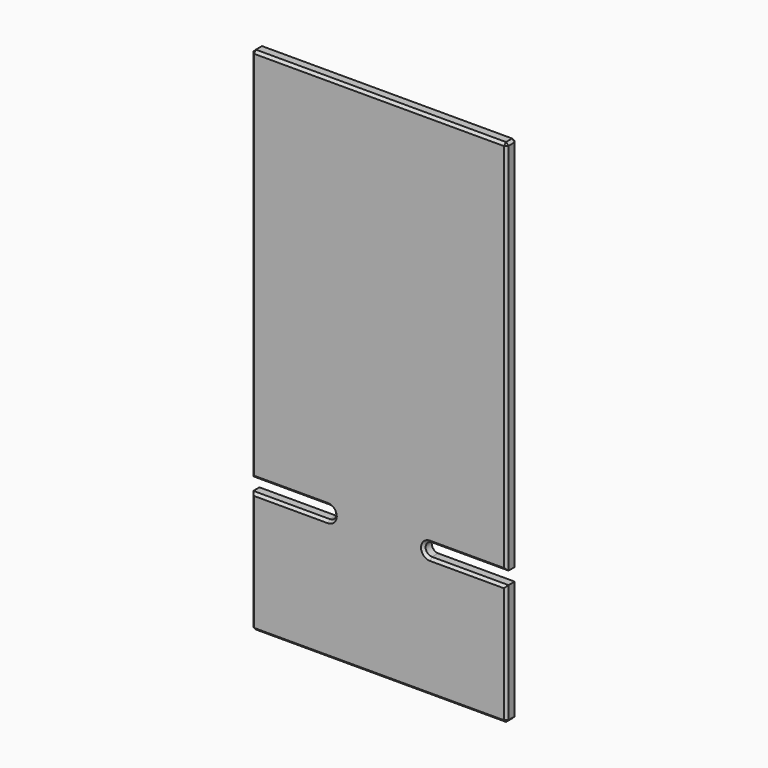
from build123d import *

# Parameters (mm, degrees)
F1_DEPTH = 5
F2_SIZE  = 1


with BuildPart() as f1:
    # F0 (on Front) → F1 (new body)
    with BuildSketch(Plane.XZ):
        with BuildLine():
            Line((79.487856, 150.528029), (-20.512144, 150.528029))
            Line((-20.512144, 150.528029), (-20.512144, 3.028029))
            Line((-20.512144, 3.028029), (9.487856, 3.028029))
            ThreePointArc((9.487856, 3.028029), (11.987856, 0.528029), (9.487856, -1.971971))
            Line((9.487856, -1.971971), (-20.512144, -1.971971))
            Line((-20.512144, -1.971971), (-20.512144, -49.471971))
            Line((-20.512144, -49.471971), (79.487856, -49.471971))
            Line((79.487856, -49.471971), (79.487856, -1.971971))
            Line((79.487856, -1.971971), (49.487856, -1.971971))
            ThreePointArc((49.487856, -1.971971), (46.987856, 0.528029), (49.487856, 3.028029))
            Line((49.487856, 3.028029), (79.487856, 3.028029))
            Line((79.487856, 3.028029), (79.487856, 150.528029))
        make_face()
    extrude(amount=F1_DEPTH)

    # F2
    f2_edges = [f1.edges().sort_by_distance(p)[0] for p in [
        (29.487856, -5, 150.528029),
        (-20.512144, -5, 76.778029),
        (-5.512144, -5, 3.028029),
        (11.987856, -5, 0.528029),
        (-5.512144, -5, -1.971971),
        (-20.512144, -5, -25.721971),
        (29.487856, -5, -49.471971),
        (79.487856, -5, -25.721971),
        (64.487856, -5, -1.971971),
        (46.987856, -5, 0.528029),
        (64.487856, -5, 3.028029),
        (79.487856, -5, 76.778029),
        (29.487856, 0, 150.528029),
        (-20.512144, 0, 76.778029),
        (-5.512144, 0, 3.028029),
        (11.987856, 0, 0.528029),
        (-5.512144, 0, -1.971971),
        (-20.512144, 0, -25.721971),
        (29.487856, 0, -49.471971),
        (79.487856, 0, -25.721971),
        (64.487856, 0, -1.971971),
        (46.987856, 0, 0.528029),
        (64.487856, 0, 3.028029),
        (79.487856, 0, 76.778029),
        (-20.512144, -2.5, -49.471971),
        (79.487856, -2.5, -49.471971),
        (79.487856, -2.5, 150.528029),
        (-20.512144, -2.5, 150.528029),
    ]]
    chamfer(f2_edges, length=F2_SIZE)


solid = f1.part
